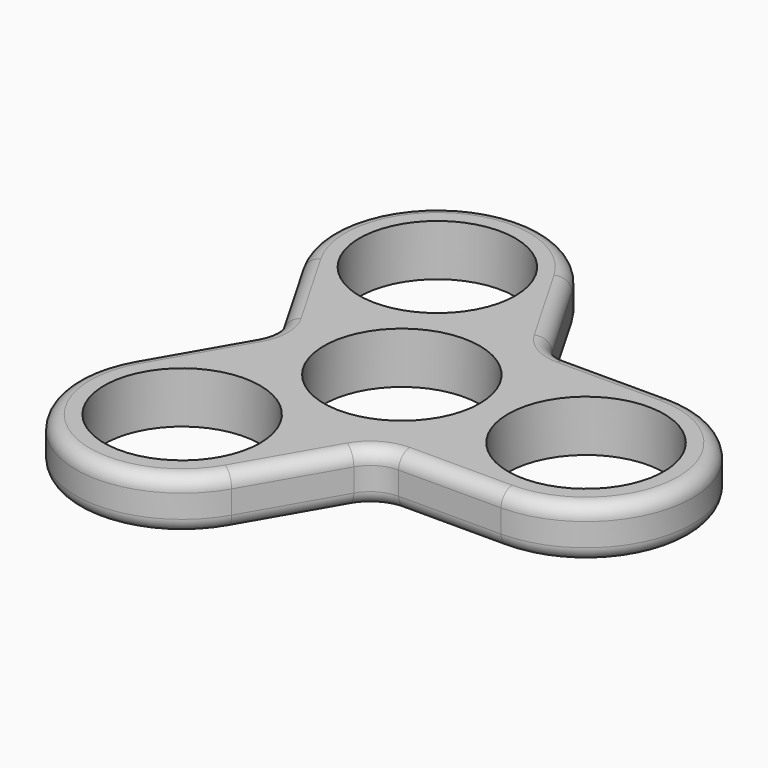
from build123d import *

# Parameters (mm, degrees)
F0_R     = 11
F1_DEPTH = 7.25
F2_R     = 5
F3_R     = 2


with BuildPart() as f1:
    # F0 (on Top) → F1 (new body)
    with BuildSketch(Plane.XY):
        with BuildLine():
            Line((8.6602539087, -14.9999997764), (25.9999998066, -15))
            ThreePointArc((25.9999998066, -15), (41, 0), (25.9999998066, 15))
            Line((25.9999998066, 15), (8.6602539087, 14.9999997764))
            Line((8.6602539087, 14.9999997764), (-0.0096188465, 30.0166603309))
            ThreePointArc((-0.0096188465, 30.0166603309), (-20.5, 35.5070415552), (-25.9903809601, 15.0166603309))
            Line((-25.9903809601, 15.0166603309), (-17.3205078175, 0))
            Line((-17.3205078175, 0), (-25.9903809601, -15.0166603309))
            ThreePointArc((-25.9903809601, -15.0166603309), (-20.5, -35.5070415552), (-0.0096188465, -30.0166603309))
            Line((-0.0096188465, -30.0166603309), (8.6602539087, -14.9999997764))
        make_face()
        with Locations((-13, -22.5166604984)):
            Circle(F0_R, mode=Mode.SUBTRACT)
        Circle(F0_R, mode=Mode.SUBTRACT)
        with BuildLine():
            ThreePointArc((37, 0), (26, -11), (15, 0))
            ThreePointArc((15, 0), (26, 11), (37, 0))
        make_face(mode=Mode.SUBTRACT)
        with Locations((-13, 22.5166604984)):
            Circle(F0_R, mode=Mode.SUBTRACT)
    extrude(amount=F1_DEPTH)

    # F2
    f2_edges = [f1.edges().sort_by_distance(p)[0] for p in [
        (8.660254, 15, 3.625),
        (-17.320508, 0, 3.625),
        (8.660254, -15, 3.625),
    ]]
    fillet(f2_edges, radius=F2_R)

    # F3
    f3_edges = [f1.edges().sort_by_distance(p)[0] for p in [
        (3.60363, -23.75833, 7.25),
        (-20.5, -35.507042, 7.25),
        (-22.377132, -8.75833, 7.25),
        (-18.094011, 0, 7.25),
        (-22.377132, 8.75833, 7.25),
        (-20.5, 35.507042, 7.25),
        (3.60363, 23.75833, 7.25),
        (18.773503, 15, 7.25),
        (41, 0, 7.25),
        (18.773503, -15, 7.25),
        (9.047005, -15.669873, 7.25),
        (9.047005, 15.669873, 7.25),
        (18.773503, -15, 0),
        (3.60363, -23.75833, 0),
        (-22.377132, -8.75833, 0),
        (-20.5, -35.507042, 0),
        (41, 0, 0),
        (18.773503, 15, 0),
        (-20.5, 35.507042, 0),
        (3.60363, 23.75833, 0),
        (-22.377132, 8.75833, 0),
        (-18.094011, 0, 0),
        (9.047005, 15.669873, 0),
        (9.047005, -15.669873, 0),
    ]]
    fillet(f3_edges, radius=F3_R)


solid = f1.part
